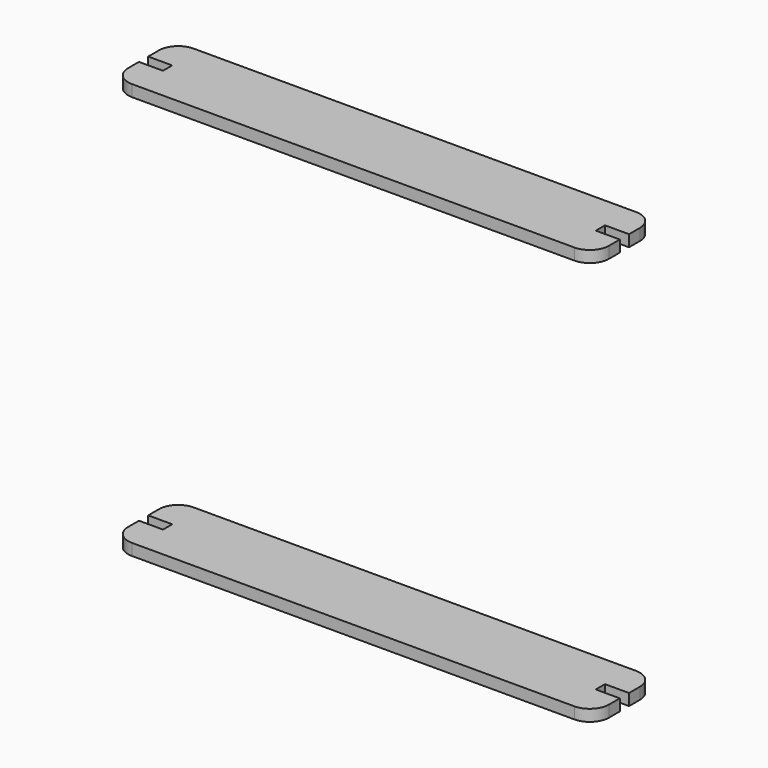
from build123d import *

# Parameters (mm, degrees)
F1_DEPTH = 6


with BuildPart() as f1:
    # F0 (on Top) → F1 (new body)
    with BuildSketch(Plane.XY):
        with BuildLine():
            ThreePointArc((0, 10), (2.9289321881, 2.9289321881), (10, 0))
            Line((10, 0), (240, 0))
            ThreePointArc((240, 0), (247.0710678119, 2.9289321881), (250, 10))
            Line((250, 10), (250, 17))
            Line((250, 17), (237.5, 17))
            Line((237.5, 17), (237.5, 23))
            Line((237.5, 23), (250, 23))
            Line((250, 23), (250, 30))
            ThreePointArc((250, 30), (247.0710678119, 37.0710678119), (240, 40))
            Line((240, 40), (10, 40))
            ThreePointArc((10, 40), (2.9289321881, 37.0710678119), (0, 30))
            Line((0, 30), (0, 23))
            Line((0, 23), (12.5, 23))
            Line((12.5, 23), (12.5, 17))
            Line((12.5, 17), (0, 17))
            Line((0, 17), (0, 10))
        make_face()
    extrude(amount=F1_DEPTH)


with BuildPart() as f2_1:
    # F2: copy of F1
    add(f1.part.moved(Location((0, 0, 210))))


solid = Compound([f1.part, f2_1.part])
